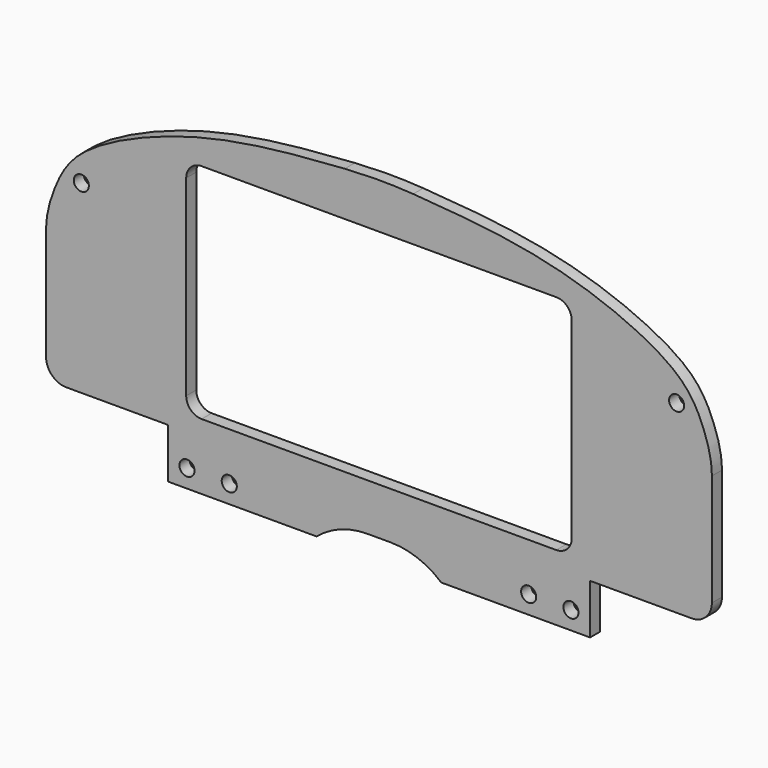
from build123d import *

# Parameters (mm, degrees)
F0_R     = 3.81
F1_DEPTH = 6.35
F2_R     = 10.16
F4_DEPTH = 25.4
F5_R     = 254


with BuildPart() as f1:
    # F0 (on Front) → F1 (new body)
    with BuildSketch(Plane.XZ):
        with BuildLine():
            Line((-106.5174639225, -64.77), (-31.4290560782, -64.77))
            ThreePointArc((-31.4290560782, -64.77), (-19.4864111897, -57.7068407051), (-5.8307349682, -55.249709636))
            Line((-5.8307349682, -55.249709636), (0, -55.249709636))
            Line((0, -55.249709636), (5.8307349682, -55.249709636))
            ThreePointArc((5.8307349682, -55.249709636), (19.4864111897, -57.7068407051), (31.4290560782, -64.77))
            Line((31.4290560782, -64.77), (106.5174639225, -64.77))
            Line((106.5174639225, -64.77), (106.5174639225, -39.5983140361))
            Line((106.5174639225, -39.5983140361), (167.9534316063, -39.5983140361))
            Line((167.9534316063, -39.5983140361), (167.9534316063, 26.9573238301))
            add(Edge.make_bspline(
                [(0, 104.3131649494), (20.410301584, 103.0330934585), (59.6583638346, 100.5752160198), (107.8367322286, 90.1029474639), (151.6277590611, 69.5902698618), (163.4617376042, 49.6125522636), (167.9534316063, 34.663336698), (167.9534316063, 26.9573238301)],
                knots=[0, 0, 0, 0, 0.2488471703, 0.4782216393, 0.6964249219, 0.8474229551, 1, 1, 1, 1], degree=3))
            add(Edge.make_bspline(
                [(0, 104.3131649494), (-20.410301584, 103.0330934585), (-59.6583638346, 100.5752160198), (-107.8367322286, 90.1029474639), (-151.6277590611, 69.5902698618), (-163.4617376042, 49.6125522636), (-167.9534316063, 34.663336698), (-167.9534316063, 26.9573238301)],
                knots=[0, 0, 0, 0, 0.2488471703, 0.4782216393, 0.6964249219, 0.8474229551, 1, 1, 1, 1], degree=3))
            Line((-167.9534316063, 26.9573238301), (-167.9534316063, -39.5983140361))
            Line((-167.9534316063, -39.5983140361), (-106.5174639225, -39.5983140361))
            Line((-106.5174639225, -39.5983140361), (-106.5174639225, -64.77))
        make_face()
        with Locations((-96.8654639225, -55.626)):
            Circle(F0_R, mode=Mode.SUBTRACT)
        with Locations((-75.5294639225, -55.626)):
            Circle(F0_R, mode=Mode.SUBTRACT)
        with Locations((75.5294639225, -55.626)):
            Circle(F0_R, mode=Mode.SUBTRACT)
        with Locations((96.8654639225, -55.626)):
            Circle(F0_R, mode=Mode.SUBTRACT)
        with Locations((-150.1734316063, 53.6196859639)):
            Circle(F0_R, mode=Mode.SUBTRACT)
        with Locations((150.1734316063, 53.6196859639)):
            Circle(F0_R, mode=Mode.SUBTRACT)
    extrude(amount=F1_DEPTH)

    # F2
    f2_edges = [f1.edges().sort_by_distance(p)[0] for p in [
        (167.953432, -3.175, -39.598314),
        (-167.953432, -3.175, -39.598314),
    ]]
    fillet(f2_edges, radius=F2_R)

    # F3 (on face) → F4 (cut)
    with BuildSketch(Plane.XZ.offset(6.35)):
        with BuildLine():
            ThreePointArc((-97.2566, -23.6979140361), (-94.9801167461, -29.1938307822), (-89.4842, -31.4703140361))
            Line((-89.4842, -31.4703140361), (89.4842, -31.4703140361))
            ThreePointArc((89.4842, -31.4703140361), (94.9801167461, -29.1938307822), (97.2566, -23.6979140361))
            Line((97.2566, -23.6979140361), (97.2566, 73.0760859639))
            ThreePointArc((97.2566, 73.0760859639), (94.9801167461, 78.57200271), (89.4842, 80.8484859639))
            Line((89.4842, 80.8484859639), (-89.4842, 80.8484859639))
            ThreePointArc((-89.4842, 80.8484859639), (-94.9801167461, 78.57200271), (-97.2566, 73.0760859639))
            Line((-97.2566, 73.0760859639), (-97.2566, -23.6979140361))
        make_face()
    extrude(amount=-F4_DEPTH, mode=Mode.SUBTRACT)

    # F5
    f5_edges = [f1.edges().sort_by_distance(p)[0] for p in [
        (0, -3.175, 104.313165),
    ]]
    fillet(f5_edges, radius=F5_R)


solid = f1.part
